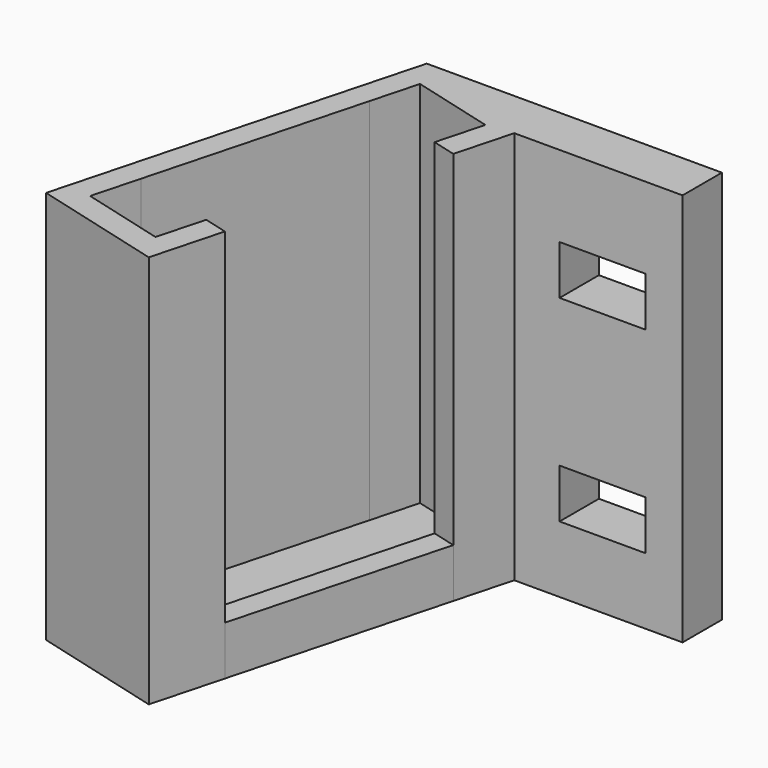
from build123d import *

# Parameters (mm, degrees)
F1_DEPTH = 16
F2_DEPTH = 1
F3_DEPTH = 2
F4_W     = 3.5
F4_H     = 2
F5_DEPTH = 2.5


with BuildPart() as f1:
    # F0 (on Top) → F1 (new body)
    with BuildSketch(Plane.XY):
        Polygon((5.312592, -1.423505), (0, 0), (-0.776457, -2.897777), (0.189469, -3.156597), (0.707107, -1.224745), (4.087847, -2.130612), (3.570209, -4.062463), (4.536135, -4.321282), (5.158121, -2), align=None)
        Polygon((-2.139903, -11.849929), (-3.105829, -11.59111), (-3.882286, -14.488887), (1.430306, -15.912392), (2.206764, -13.014615), (1.240838, -12.755796), (0.7232, -14.687647), (-2.657541, -13.781781), align=None)
        Polygon((0.189469, -3.156597), (-0.776457, -2.897777), (-3.105829, -11.59111), (-2.139903, -11.849929), align=None)
        Polygon((12, 0), (0, 0), (5.312592, -1.423505), (5.158121, -2), (12, -2), align=None)
    extrude(amount=F1_DEPTH)

    # F0 (on Top) → F2 (join)
    with BuildSketch(Plane.XY):
        Polygon((0.707107, -1.224745), (0.189469, -3.156597), (-2.139903, -11.849929), (-2.657541, -13.781781), (0.7232, -14.687647), (1.240838, -12.755796), (3.570209, -4.062463), (4.087847, -2.130612), align=None)
    extrude(amount=F2_DEPTH)

    # F0 (on Top) → F3 (join)
    with BuildSketch(Plane.XY):
        Polygon((2.206764, -13.014615), (4.536135, -4.321282), (3.570209, -4.062463), (1.240838, -12.755796), align=None)
    extrude(amount=F3_DEPTH)


with BuildPart() as f5:
    # F4 (on Front) → F5 (new body, symmetric)
    with BuildSketch(Plane.XZ):
        with Locations((16.25, 11.703817)):
            Rectangle(F4_W, F4_H)
        with Locations((16.25, 3.703817)):
            Rectangle(F4_W, F4_H)
    extrude(amount=F5_DEPTH, both=True)


with BuildPart() as f5_1:
    # F6: moved
    add(f5.part.moved(Location((-7.5, 0, 0))))


with BuildPart() as f1_1:
    add(f1.part)

    # F7: cut F5
    add(f5_1.part, mode=Mode.SUBTRACT)


solid = f1_1.part
